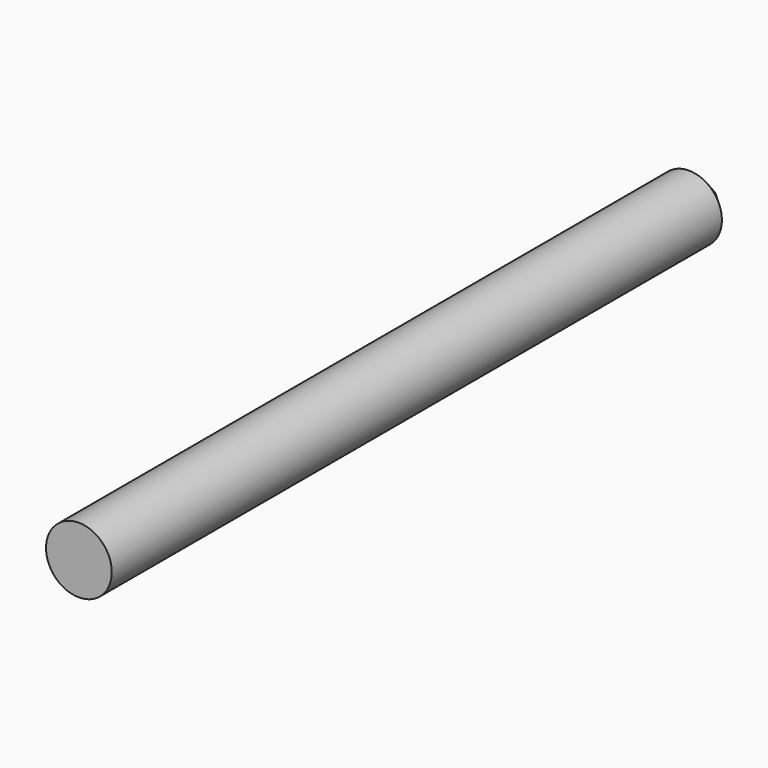
from build123d import *

# Parameters (mm, degrees)
F0_R     = 1.5875
F1_DEPTH = 38.1
F2_SIZE  = 1.27


with BuildPart() as f1:
    # F0 (on Front) → F1 (new body)
    with BuildSketch(Plane.XZ):
        Circle(F0_R)
    extrude(amount=F1_DEPTH)

    # F2
    f2_edges = [f1.edges().sort_by_distance(p)[0] for p in [
        (-1.5875, 0, 0),
    ]]
    chamfer(f2_edges, length=F2_SIZE)


solid = f1.part
